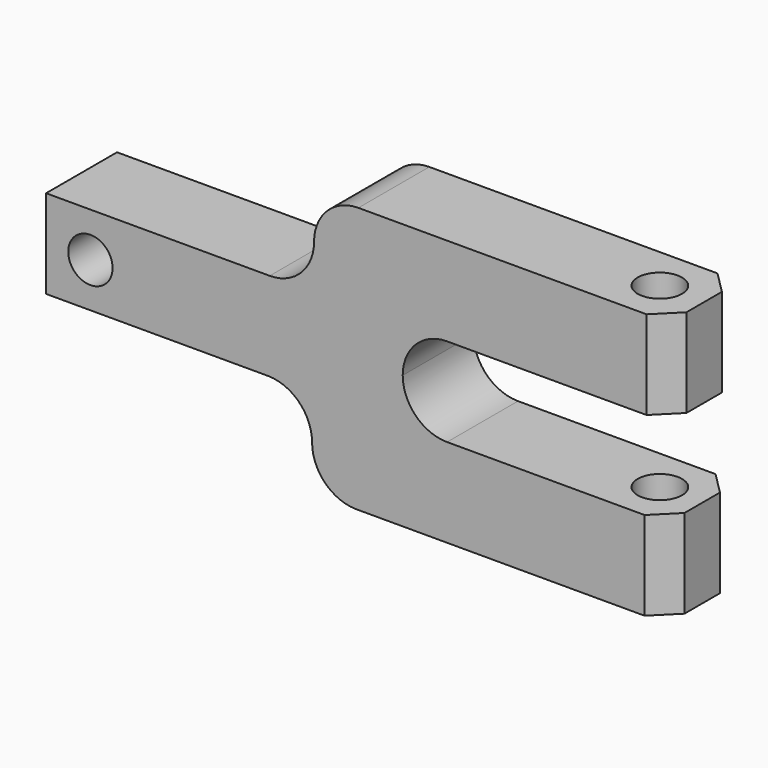
from build123d import *

# Parameters (mm, degrees)
F0_R     = 6.35
F1_DEPTH = 25.4
F2_R     = 6.35
F3_DEPTH = 44.45
F4_SIZE  = 6.35


with BuildPart() as f1:
    # F0 (on Front) → F1 (new body)
    with BuildSketch(Plane.XZ):
        with BuildLine():
            Line((-22.402494, 12.7), (-86.464335, 12.7))
            Line((-86.464335, 12.7), (-86.464335, -12.7))
            Line((-86.464335, -12.7), (-22.964335, -12.7))
            ThreePointArc((-22.964335, -12.7), (-13.984079, -16.419744), (-10.264335, -25.4))
            ThreePointArc((-10.264335, -25.4), (-6.544591, -34.380256), (2.435665, -38.1))
            Line((2.435665, -38.1), (91.335665, -38.1))
            Line((91.335665, -38.1), (91.335665, -12.7))
            Line((91.335665, -12.7), (28.397506, -12.7))
            ThreePointArc((28.397506, -12.7), (19.41725, -8.980256), (15.697506, 0))
            ThreePointArc((15.697506, 0), (19.41725, 8.980256), (28.397506, 12.7))
            Line((28.397506, 12.7), (91.897506, 12.7))
            Line((91.897506, 12.7), (91.897506, 38.1))
            Line((91.897506, 38.1), (2.997506, 38.1))
            ThreePointArc((2.997506, 38.1), (-5.98275, 34.380256), (-9.702494, 25.4))
            ThreePointArc((-9.702494, 25.4), (-13.422238, 16.419744), (-22.402494, 12.7))
        make_face()
        with Locations((-73.764335, 0)):
            Circle(F0_R, mode=Mode.SUBTRACT)
    extrude(amount=F1_DEPTH)

    # F2 (on Top) → F3 (cut, symmetric)
    with BuildSketch(Plane.XY):
        with Locations((79.197506, -12.7)):
            Circle(F2_R)
    extrude(amount=F3_DEPTH, both=True, mode=Mode.SUBTRACT)

    # F4
    f4_edges = [f1.edges().sort_by_distance(p)[0] for p in [
        (91.897506, 0, 25.4),
        (91.335665, 0, -25.4),
        (91.897506, -25.4, 25.4),
        (91.335665, -25.4, -25.4),
    ]]
    chamfer(f4_edges, length=F4_SIZE)


solid = f1.part
